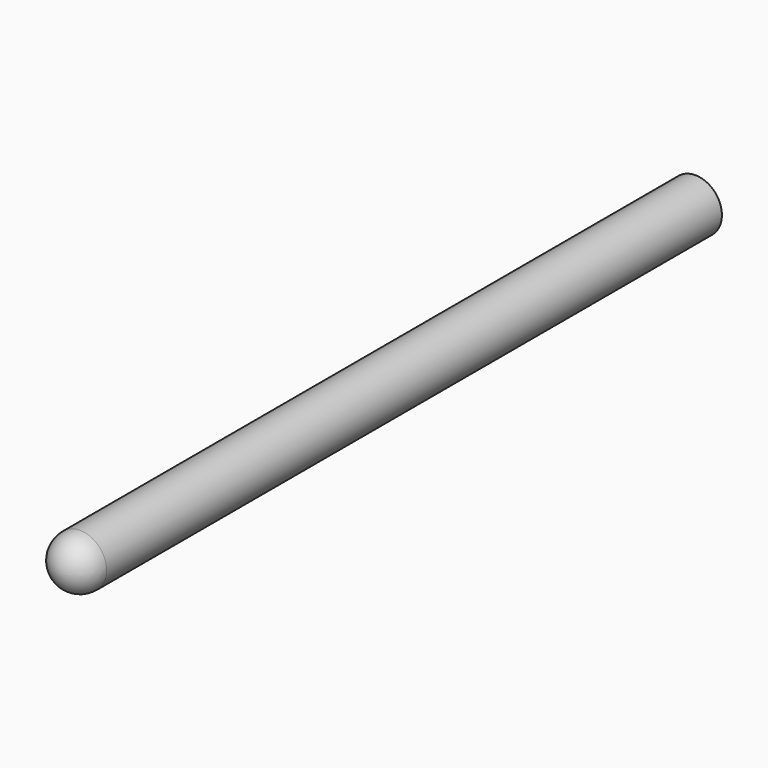
from build123d import *

# Parameters (mm, degrees)
F0_R     = 12.7
F1_DEPTH = 381
F2_R     = 12.7


with BuildPart() as f1:
    # F0 (on Front) → F1 (new body)
    with BuildSketch(Plane.XZ):
        Circle(F0_R)
    extrude(amount=-F1_DEPTH)

    # F2
    f2_edges = [f1.edges().sort_by_distance(p)[0] for p in [
        (-12.7, 0, 0),
    ]]
    fillet(f2_edges, radius=F2_R)


solid = f1.part
